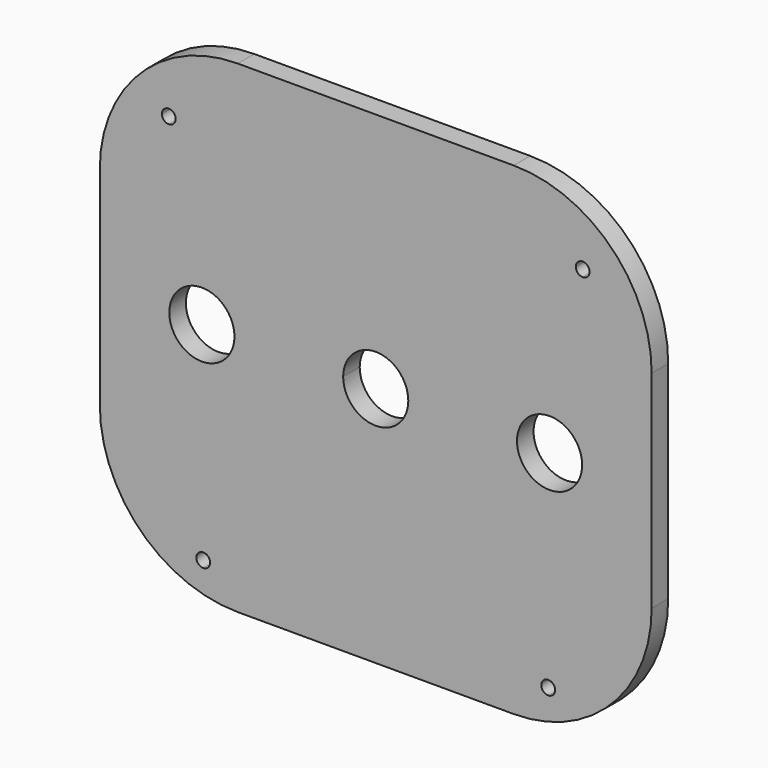
from build123d import *

# Parameters (mm, degrees)
F1_DEPTH = 3.81
F2_R     = 5.9944
F3_DEPTH = 25.4
F4_R     = 25.4


with BuildPart() as f1:
    # F0 (on Front) → F1 (new body)
    with BuildSketch(Plane.XZ):
        with BuildLine():
            ThreePointArc((-77.47, 0), (-76.2, 1.27), (-74.93, 0))
            Line((-74.93, 0), (-1.27, 0))
            ThreePointArc((-1.27, 0), (0, 1.27), (1.27, 0))
            Line((1.27, 0), (12.7, 0))
            Line((12.7, 0), (12.7, 12.7))
            Line((12.7, 12.7), (-88.9, 12.7))
            Line((-88.9, 12.7), (-88.9, 0))
            Line((-88.9, 0), (-77.47, 0))
        make_face()
        with BuildLine():
            ThreePointArc((-76.2, -1.27), (-77.0980256121, -0.8980256121), (-77.47, 0))
            Line((-77.47, 0), (-88.9, 0))
            Line((-88.9, 0), (-88.9, -76.2))
            Line((-88.9, -76.2), (-76.2, -76.2))
            Line((-76.2, -76.2), (-76.2, -1.27))
        make_face()
        with BuildLine():
            Line((-1.27, 0), (-74.93, 0))
            ThreePointArc((-74.93, 0), (-75.3019743879, -0.8980256121), (-76.2, -1.27))
            Line((-76.2, -1.27), (-76.2, -76.2))
            Line((-76.2, -76.2), (-69.85, -76.2))
            Line((-69.85, -76.2), (-6.35, -76.2))
            Line((-6.35, -76.2), (-6.35, -71.12))
            ThreePointArc((-6.35, -71.12), (-7.2480256121, -68.9519743879), (-5.08, -69.85))
            Line((-5.08, -69.85), (0, -69.85))
            Line((0, -69.85), (0, -1.27))
            ThreePointArc((0, -1.27), (-0.8980256121, -0.8980256121), (-1.27, 0))
        make_face()
        with BuildLine():
            ThreePointArc((-68.58, -69.85), (-68.9519743879, -70.7480256121), (-69.85, -71.12))
            ThreePointArc((-69.85, -71.12), (-70.7480256121, -68.9519743879), (-68.58, -69.85))
        make_face(mode=Mode.SUBTRACT)
        with BuildLine():
            Line((0, -76.2), (0, -69.85))
            Line((0, -69.85), (-5.08, -69.85))
            ThreePointArc((-5.08, -69.85), (-5.4519743879, -70.7480256121), (-6.35, -71.12))
            Line((-6.35, -71.12), (-6.35, -76.2))
            Line((-6.35, -76.2), (0, -76.2))
        make_face()
        with BuildLine():
            Line((12.7, 0), (1.27, 0))
            ThreePointArc((1.27, 0), (0.8980256121, -0.8980256121), (0, -1.27))
            Line((0, -1.27), (0, -69.85))
            Line((0, -69.85), (0, -76.2))
            Line((0, -76.2), (12.7, -76.2))
            Line((12.7, -76.2), (12.7, 0))
        make_face()
    extrude(amount=F1_DEPTH)

    # F2 (on face) → F3 (cut)
    with BuildSketch(Plane.XZ.offset(3.81)):
        with Locations((-70.104, -31.75)):
            Circle(F2_R)
        with BuildLine():
            Line((-38.1, -31.75), (-38.1, -25.7556))
            ThreePointArc((-38.1, -25.7556), (-42.3386808891, -27.5113191109), (-44.0944, -31.75))
            Line((-44.0944, -31.75), (-38.1, -31.75))
        make_face()
        with BuildLine():
            ThreePointArc((-32.1056, -31.75), (-33.8613191109, -27.5113191109), (-38.1, -25.7556))
            Line((-38.1, -25.7556), (-38.1, -31.75))
            Line((-38.1, -31.75), (-32.1056, -31.75))
        make_face()
        with BuildLine():
            Line((-32.1056, -31.75), (-38.1, -31.75))
            Line((-38.1, -31.75), (-44.0944, -31.75))
            ThreePointArc((-44.0944, -31.75), (-38.1, -37.7444), (-32.1056, -31.75))
        make_face()
        with BuildLine():
            ThreePointArc((-0.1016, -31.75), (-6.096, -25.7556), (-12.0904, -31.75))
            ThreePointArc((-12.0904, -31.75), (-6.096, -37.7444), (-0.1016, -31.75))
        make_face()
    extrude(amount=-F3_DEPTH, mode=Mode.SUBTRACT)

    # F4
    f4_edges = [f1.edges().sort_by_distance(p)[0] for p in [
        (12.7, -1.905, 12.7),
        (-88.9, -1.905, 12.7),
        (12.7, -1.905, -76.2),
        (-88.9, -1.905, -76.2),
    ]]
    fillet(f4_edges, radius=F4_R)


solid = f1.part
